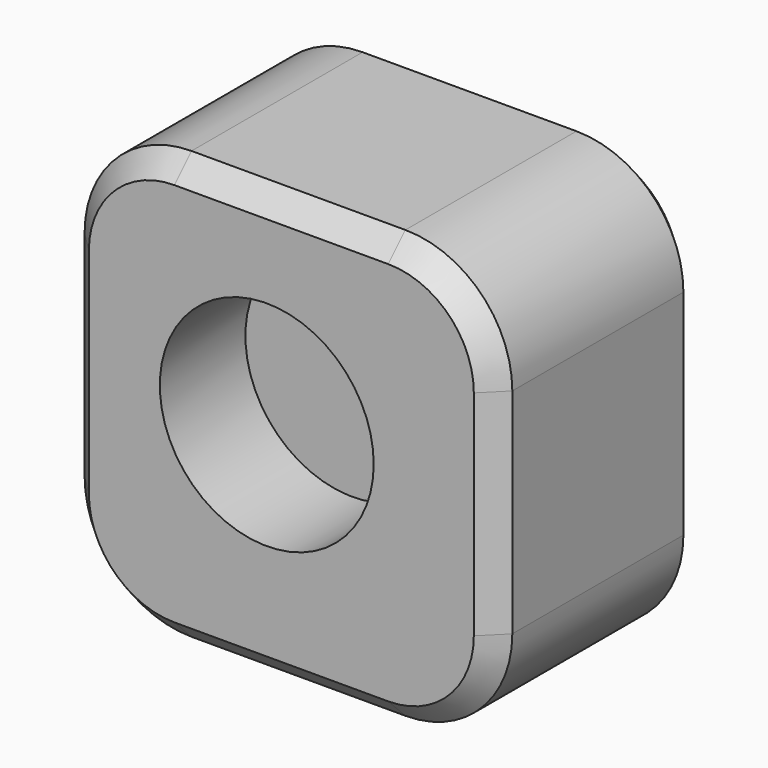
from build123d import *

# Parameters (mm, degrees)
F1_DEPTH = 60
F2_SIZE  = 5
F3_R     = 25
F4_DEPTH = 25


with BuildPart() as f1:
    # F0 (on Front) → F1 (new body)
    with BuildSketch(Plane.XZ):
        with BuildLine():
            Line((33.428539, 87.827305), (-16.571461, 87.827305))
            ThreePointArc((-16.571461, 87.827305), (-34.24913, 80.504975), (-41.571461, 62.827305))
            Line((-41.571461, 62.827305), (-41.571461, 12.827305))
            ThreePointArc((-41.571461, 12.827305), (-34.24913, -4.850364), (-16.571461, -12.172695))
            Line((-16.571461, -12.172695), (33.428539, -12.172695))
            ThreePointArc((33.428539, -12.172695), (51.106209, -4.850364), (58.428539, 12.827305))
            Line((58.428539, 12.827305), (58.428539, 62.827305))
            ThreePointArc((58.428539, 62.827305), (51.106209, 80.504975), (33.428539, 87.827305))
        make_face()
    extrude(amount=F1_DEPTH)

    # F2
    f2_edges = [f1.edges().sort_by_distance(p)[0] for p in [
        (58.428539, -60, 37.827305),
        (51.106209, -60, 80.504975),
        (8.428539, -60, 87.827305),
        (-34.24913, -60, 80.504975),
        (-41.571461, -60, 37.827305),
        (-34.24913, -60, -4.850364),
        (8.428539, -60, -12.172695),
        (51.106209, -60, -4.850364),
        (58.428539, 0, 37.827305),
        (51.106209, 0, 80.504975),
        (8.428539, 0, 87.827305),
        (-34.24913, 0, 80.504975),
        (-41.571461, 0, 37.827305),
        (-34.24913, 0, -4.850364),
        (8.428539, 0, -12.172695),
        (51.106209, 0, -4.850364),
    ]]
    chamfer(f2_edges, length=F2_SIZE)

    # F3 (on face) → F4 (cut)
    with BuildSketch(Plane.XZ.offset(60)):
        with Locations((5.020919, 40.530141)):
            Circle(F3_R)
    extrude(amount=-F4_DEPTH, mode=Mode.SUBTRACT)


solid = f1.part
